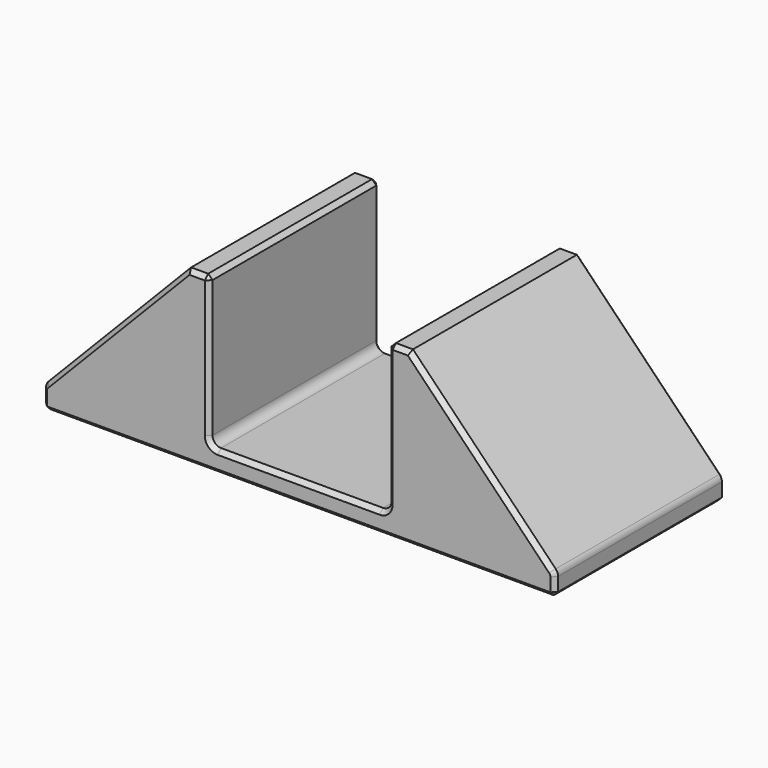
from build123d import *

# Parameters (mm, degrees)
F0_W     = 60
F0_H     = 25
F1_DEPTH = 20
F2_W     = 21
F2_H     = 17.5
F3_DEPTH = 25.001
F4_R     = 1
F5_SIZE  = 0.5


with BuildPart() as f1:
    # F0 (on Top) → F1 (new body)
    with BuildSketch(Plane.XY):
        Rectangle(F0_W, F0_H)
    extrude(amount=F1_DEPTH)

    # F2 (on face) → F3 (cut, through all)
    with BuildSketch(Plane.XZ.offset(12.5)):
        with Locations((0, 11.25)):
            Rectangle(F2_W, F2_H)
        Polygon((-30, 2.5), (-13, 20), (-30, 20), align=None)
        Polygon((30, 2.5), (30, 20), (13, 20), align=None)
    extrude(amount=-F3_DEPTH, mode=Mode.SUBTRACT)

    # F4
    f4_edges = [f1.edges().sort_by_distance(p)[0] for p in [
        (-10.5, 0, 2.5),
        (10.5, 0, 2.5),
        (-30, 0, 2.5),
        (30, 0, 2.5),
    ]]
    fillet(f4_edges, radius=F4_R)

    # F5
    f5_edges = [f1.edges().sort_by_distance(p)[0] for p in [
        (0, -12.5, 0),
        (30, 0, 0),
        (0, 12.5, 0),
        (-30, 0, 0),
        (-10.5, 0, 20),
        (10.5, 0, 20),
        (30, -12.5, 1.047125),
        (29.926628, -12.5, 2.470229),
        (21.35864, -12.5, 11.395518),
        (-30, -12.5, 1.047125),
        (11.75, -12.5, 20),
        (-29.926628, -12.5, 2.470229),
        (10.5, -12.5, 11.75),
        (-21.35864, -12.5, 11.395518),
        (10.207107, -12.5, 2.792893),
        (-11.75, -12.5, 20),
        (0, -12.5, 2.5),
        (-10.5, -12.5, 11.75),
        (-10.207107, -12.5, 2.792893),
        (-30, 12.5, 1.047125),
        (-29.926628, 12.5, 2.470229),
        (-21.35864, 12.5, 11.395518),
        (30, 12.5, 1.047125),
        (-11.75, 12.5, 20),
        (29.926628, 12.5, 2.470229),
        (-10.5, 12.5, 11.75),
        (21.35864, 12.5, 11.395518),
        (-10.207107, 12.5, 2.792893),
        (11.75, 12.5, 20),
        (0, 12.5, 2.5),
        (10.5, 12.5, 11.75),
        (10.207107, 12.5, 2.792893),
    ]]
    chamfer(f5_edges, length=F5_SIZE)


solid = f1.part
